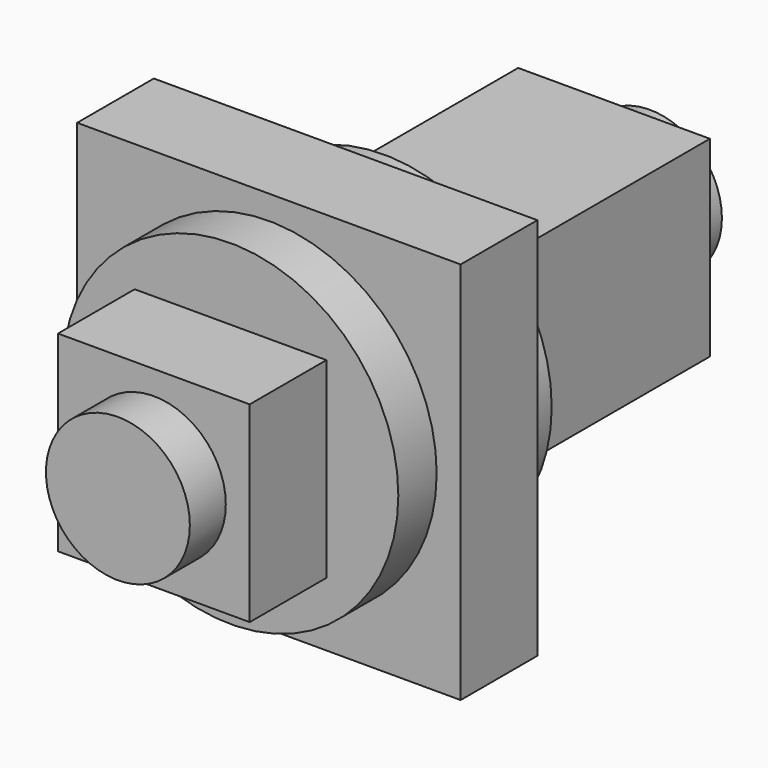
from build123d import *

# Parameters (mm, degrees)
F0_W      = 205.25232
F0_H      = 205.25232
F0_R      = 89.79789
F1_DEPTH  = 25.65654
F2_DEPTH  = 51.308
F3_W      = 102.616
F3_H      = 102.616
F3_R      = 38.5064
F4_DEPTH  = 153.924
F4_FACE_R = 38.5064
F5_DEPTH  = 177.9778


with BuildPart() as f1:
    # F0 (on Front) → F1 (new body, symmetric)
    with BuildSketch(Plane.XZ):
        Rectangle(F0_W, F0_H)
        Circle(F0_R, mode=Mode.SUBTRACT)
    extrude(amount=F1_DEPTH, both=True)


with BuildPart() as f2:
    # F0 (on Front) → F2 (new body, symmetric)
    with BuildSketch(Plane.XZ):
        Circle(F0_R)
    extrude(amount=F2_DEPTH, both=True)

    # F3 (on face) → F4 (join, symmetric)
    with BuildSketch(Plane(origin=(0, 51.308, 0), x_dir=(-1, 0, 0), z_dir=(0, 1, 0))):
        Rectangle(F3_W, F3_H)
        Circle(F3_R, mode=Mode.SUBTRACT)
    extrude(amount=F4_DEPTH, both=True)

    # F4_face (on face) → F5 (join, symmetric)
    with BuildSketch(Plane(origin=(0, 51.308, 0), x_dir=(1, 0, 0), z_dir=(0, 1, 0))):
        Circle(F4_FACE_R)
    extrude(amount=F5_DEPTH, both=True)


solid = Compound([f1.part, f2.part])
